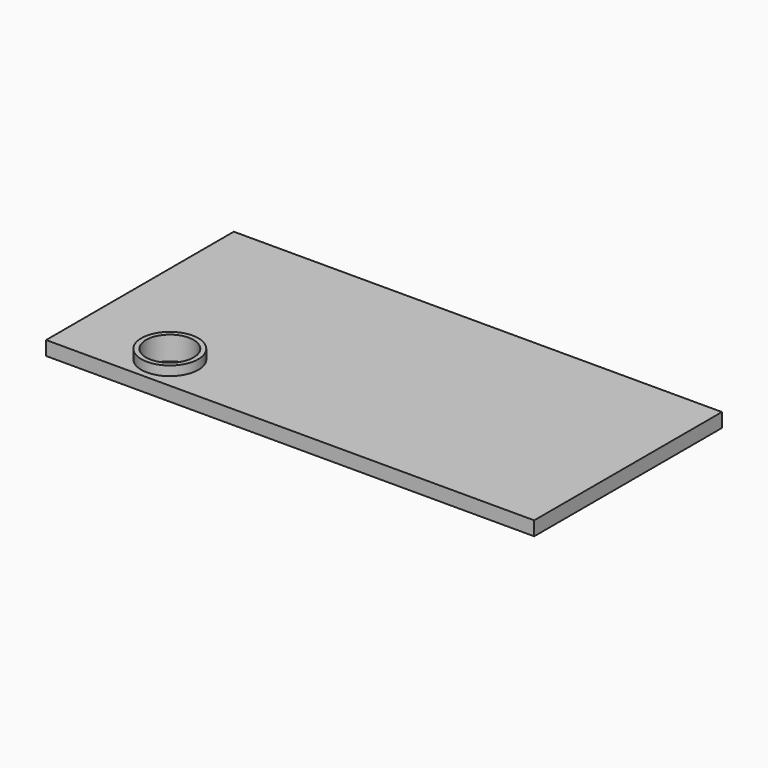
from build123d import *

# Parameters (mm, degrees)
F0_W     = 1321.300506
F0_H     = 635.08135
F0_R     = 64.413244
F1_DEPTH = 38.1
F2_R     = 77.113234
F2_R_2   = 64.413244
F3_DEPTH = 25.4


with BuildPart() as f1:
    # F0 (on Top) → F1 (new body)
    with BuildSketch(Plane.XY):
        Rectangle(F0_W, F0_H)
        with Locations((-401.148856, -223.188221)):
            Circle(F0_R, mode=Mode.SUBTRACT)
    extrude(amount=F1_DEPTH)

    # F2 (on face) → F3 (join)
    with BuildSketch(Plane.XY.offset(38.1)):
        with Locations((-401.148856, -223.188221)):
            Circle(F2_R)
        with Locations((-401.148856, -223.188221)):
            Circle(F2_R_2, mode=Mode.SUBTRACT)
    extrude(amount=F3_DEPTH)


solid = f1.part
